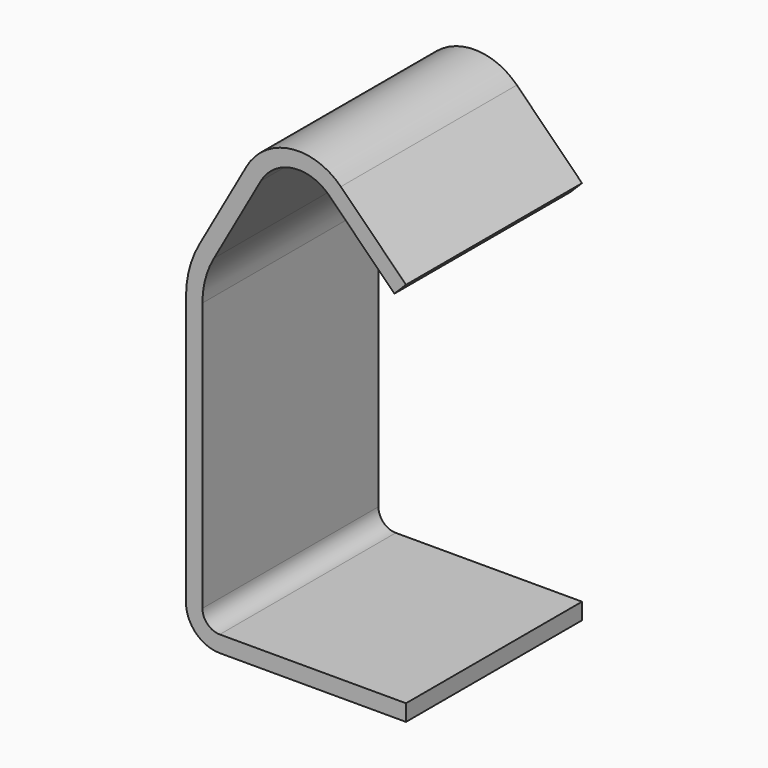
from build123d import *

# Parameters (mm, degrees)
F1_DEPTH = 25.4


with BuildPart() as f1:
    # F0 (on Front) → F1 (new body)
    with BuildSketch(Plane.XZ):
        with BuildLine():
            Line((3.89738, 0), (25.4, 0))
            Line((25.4, 0), (25.4, 1.89738))
            Line((25.4, 1.89738), (3.89738, 1.89738))
            ThreePointArc((3.89738, 1.89738), (2.483166, 2.483166), (1.89738, 3.89738))
            Line((1.89738, 3.89738), (1.89738, 34.925))
            ThreePointArc((1.89738, 34.925), (2.237059, 37.509041), (3.23293, 39.917544))
            Line((3.23293, 39.917544), (8.641817, 49.529643))
            ThreePointArc((8.641817, 49.529643), (12.319295, 52.031165), (16.534826, 50.613154))
            Line((16.534826, 50.613154), (24.05835, 43.08963))
            Line((24.05835, 43.08963), (25.4, 44.43128))
            Line((25.4, 44.43128), (17.876476, 51.954804))
            ThreePointArc((17.876476, 51.954804), (12.061252, 53.910916), (6.98826, 50.460127))
            Line((6.98826, 50.460127), (1.583915, 40.856099))
            ThreePointArc((1.583915, 40.856099), (0.402821, 37.99447), (0, 34.925))
            Line((0, 34.925), (0, 34.924818))
            Line((0, 34.924818), (0, 3.89738))
            ThreePointArc((0, 3.89738), (1.141516, 1.141516), (3.89738, 0))
        make_face()
    extrude(amount=F1_DEPTH)


solid = f1.part
